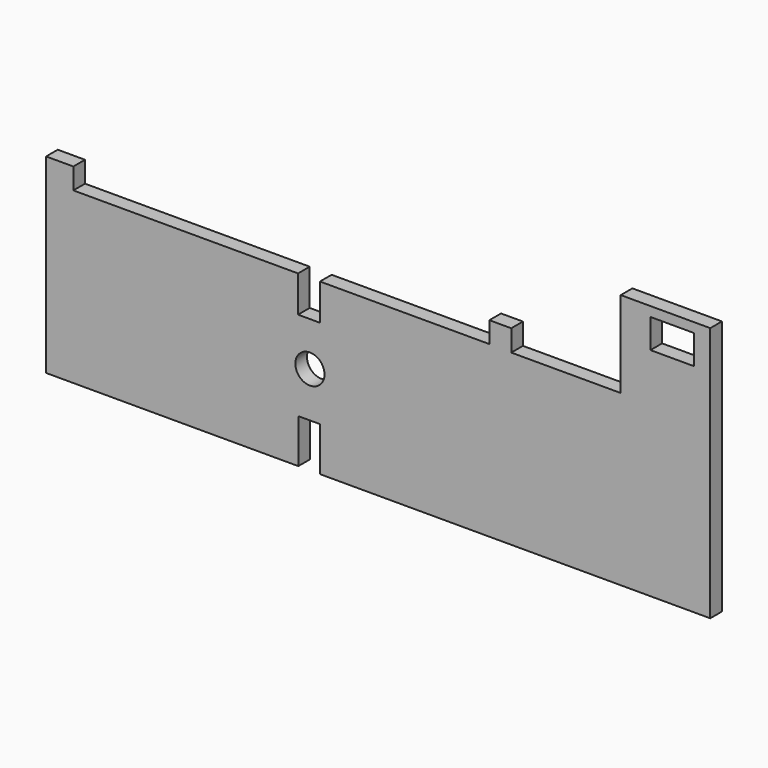
from build123d import *

# Parameters (mm, degrees)
F0_W      = 91
F0_H      = 35
F1_DEPTH  = 2
F2_W      = 15
F2_H      = 12
F3_DEPTH  = 3
F5_DEPTH  = 5
F6_W      = 57
F6_H      = 3
F7_DEPTH  = 3
F8_W      = 3
F8_H      = 5
F9_DEPTH  = 9
F10_W     = 3
F10_H     = 6.3
F11_DEPTH = 4
F12_R     = 2
F13_DEPTH = 4
F14_W     = 6
F14_H     = 4
F15_DEPTH = 4


with BuildPart() as f1:
    # F0 (on Front) → F1 (new body)
    with BuildSketch(Plane.XZ):
        with Locations((-18.235627, 10.280461)):
            Rectangle(F0_W, F0_H)
    extrude(amount=F1_DEPTH)

    # F2 (on Front) → F3 (cut)
    with BuildSketch(Plane.XZ):
        with Locations((7.5, 21.966114)):
            Rectangle(F2_W, F2_H)
    extrude(amount=F3_DEPTH, mode=Mode.SUBTRACT)

    # F4 (on Front) → F5 (cut)
    with BuildSketch(Plane.XZ):
        Polygon((-65.685175, 18.899074), (0, 18.899074), (0, 18.929425), (0, 28.964864), (-65.685175, 28.964864), align=None)
    extrude(amount=F5_DEPTH, mode=Mode.SUBTRACT)

    # F6 (on Front) → F7 (cut)
    with BuildSketch(Plane.XZ):
        with Locations((-31.5, 17.516951)):
            Rectangle(F6_W, F6_H)
    extrude(amount=F7_DEPTH, mode=Mode.SUBTRACT)

    # F8 (on Front) → F9 (cut)
    with BuildSketch(Plane.XZ):
        with Locations((-27.711618, 13.540782)):
            Rectangle(F8_W, F8_H)
    extrude(amount=F9_DEPTH, mode=Mode.SUBTRACT)

    # F10 (on Front) → F11 (cut)
    with BuildSketch(Plane.XZ):
        with Locations((-27.678377, -4.335782)):
            Rectangle(F10_W, F10_H)
    extrude(amount=F11_DEPTH, mode=Mode.SUBTRACT)

    # F12 (on Front) → F13 (cut)
    with BuildSketch(Plane.XZ):
        with Locations((-27.586486, 5.011399)):
            Circle(F12_R)
    extrude(amount=F13_DEPTH, mode=Mode.SUBTRACT)

    # F14 (on Front) → F15 (cut)
    with BuildSketch(Plane.XZ):
        with Locations((22.072674, 24.467368)):
            Rectangle(F14_W, F14_H)
    extrude(amount=F15_DEPTH, mode=Mode.SUBTRACT)


solid = f1.part
